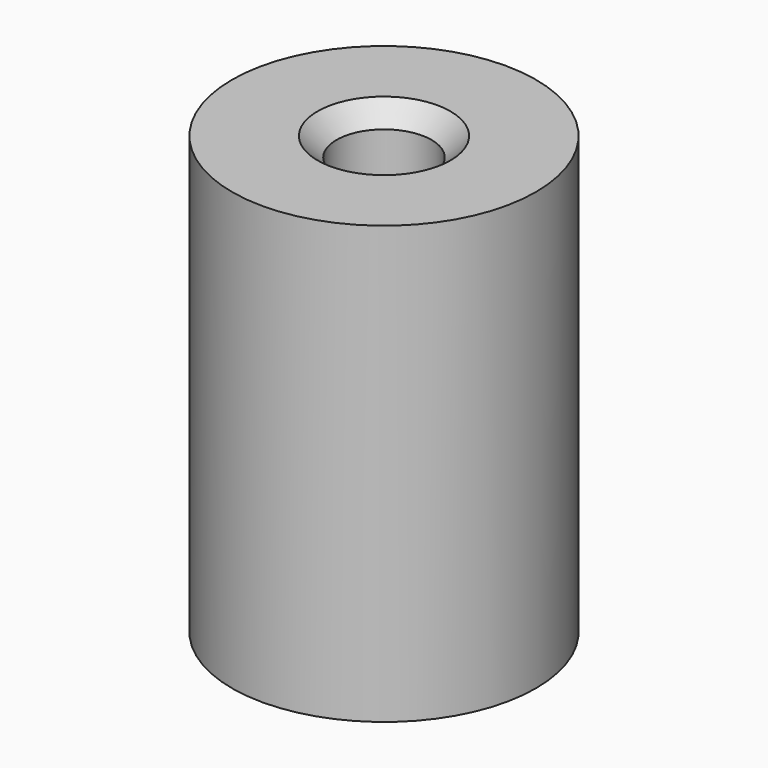
from build123d import *

# Parameters (mm, degrees)
F0_R     = 8
F1_DEPTH = 23
F2_T     = -5.5
F3_SIZE  = 1


with BuildPart() as f1:
    # F0 (on Top) → F1 (new body)
    with BuildSketch(Plane.XY):
        Circle(F0_R)
    extrude(amount=-F1_DEPTH)

    # F2
    f2_openings = [f1.faces().sort_by_distance(p)[0] for p in [
        (0, 0, 0),
        (0, 0, -23),
    ]]
    offset(amount=F2_T, openings=f2_openings)

    # F3
    f3_edges = [f1.edges().sort_by_distance(p)[0] for p in [
        (-2.5, 0, 0),
    ]]
    chamfer(f3_edges, length=F3_SIZE)


solid = f1.part
